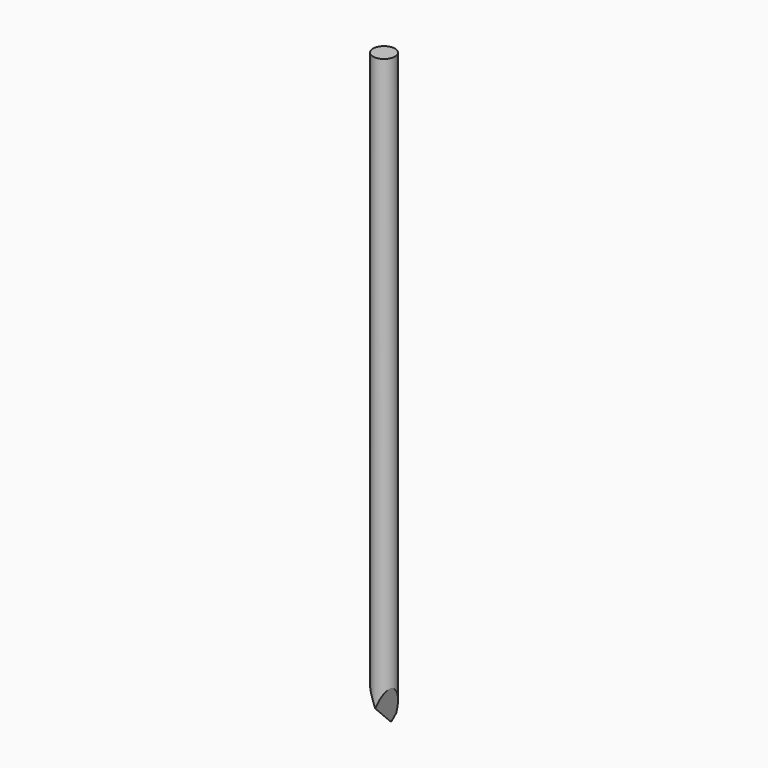
from build123d import *

# Parameters (mm, degrees)
F0_R          = 0.75
F1_DEPTH      = 40
F1_DEPTH_BACK = 5
F4_DEPTH      = 28.8156013334
F4_DEPTH_BACK = 4.0668639918
F6_W          = 6.4407079129
F6_H          = 2.7354915243
F7_DEPTH      = 0.869841948
F7_DEPTH_BACK = 39.5235462537


with BuildPart() as f1:
    # F0 (on Top) → F1 (new body, two sides)
    with BuildSketch(Plane.XY) as f1_sk:
        Circle(F0_R)
    extrude(amount=F1_DEPTH)
    extrude(f1_sk.sketch, amount=-F1_DEPTH_BACK)

    # F3 (on line) → F4 (cut, two sides)
    with BuildSketch(Plane(origin=(0, 0, 0), x_dir=(1, 0, 0), z_dir=(0, 0.7071067812, -0.7071067812))) as f4_sk:
        Polygon((-3.5966049702, -6.2295025431), (0, 0), (3.5966049702, -6.2295025431), (3.5966049702, 7.7731425289), (-3.5966049702, 7.7731425289), align=None)
    extrude(amount=-F4_DEPTH, mode=Mode.SUBTRACT)
    extrude(f4_sk.sketch, amount=F4_DEPTH_BACK, mode=Mode.SUBTRACT)

    # F6 (on face) → F7 (cut, two sides)
    with BuildSketch(Plane(origin=(0, 0, 0), x_dir=(1, 0, 0), z_dir=(0, -0.1736481777, -0.984807753))) as f7_sk:
        with Locations((-0.1402113121, -2.0677457621)):
            Rectangle(F6_W, F6_H)
    extrude(amount=F7_DEPTH, mode=Mode.SUBTRACT)
    extrude(f7_sk.sketch, amount=-F7_DEPTH_BACK, mode=Mode.SUBTRACT)


solid = f1.part
